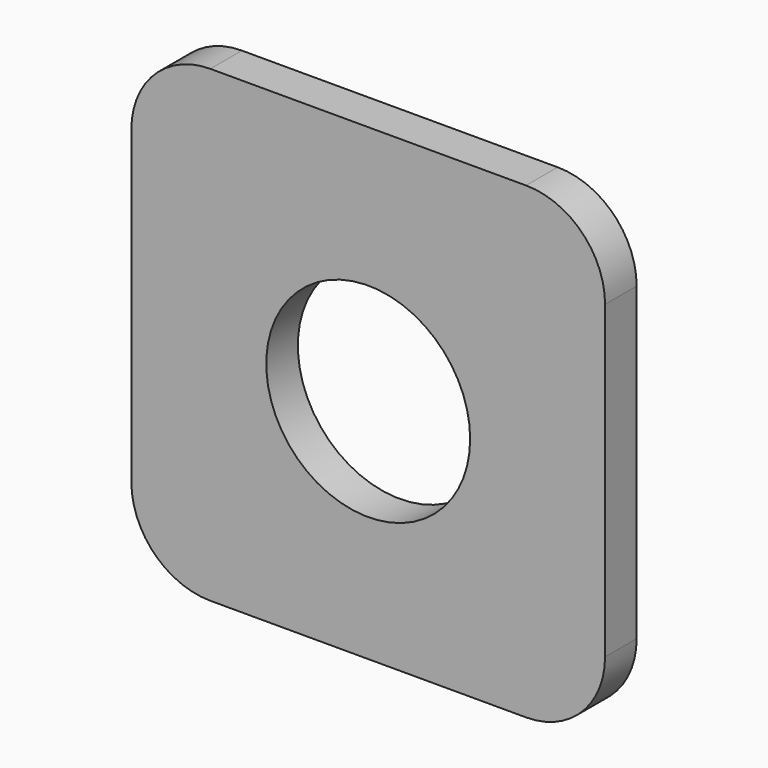
from build123d import *

# Parameters (mm, degrees)
F0_W     = 119.956396
F0_H     = 118.582852
F0_R     = 25.815734
F1_DEPTH = 10
F2_R     = 20


with BuildPart() as f1:
    # F0 (on Front) → F1 (new body)
    with BuildSketch(Plane.XZ):
        Rectangle(F0_W, F0_H)
        with Locations((0, -1.831395)):
            Circle(F0_R, mode=Mode.SUBTRACT)
    extrude(amount=F1_DEPTH)

    # F2
    f2_edges = [f1.edges().sort_by_distance(p)[0] for p in [
        (-59.978198, -5, 59.291426),
        (59.978198, -5, 59.291426),
        (-59.978198, -5, -59.291426),
        (59.978198, -5, -59.291426),
    ]]
    fillet(f2_edges, radius=F2_R)


solid = f1.part
